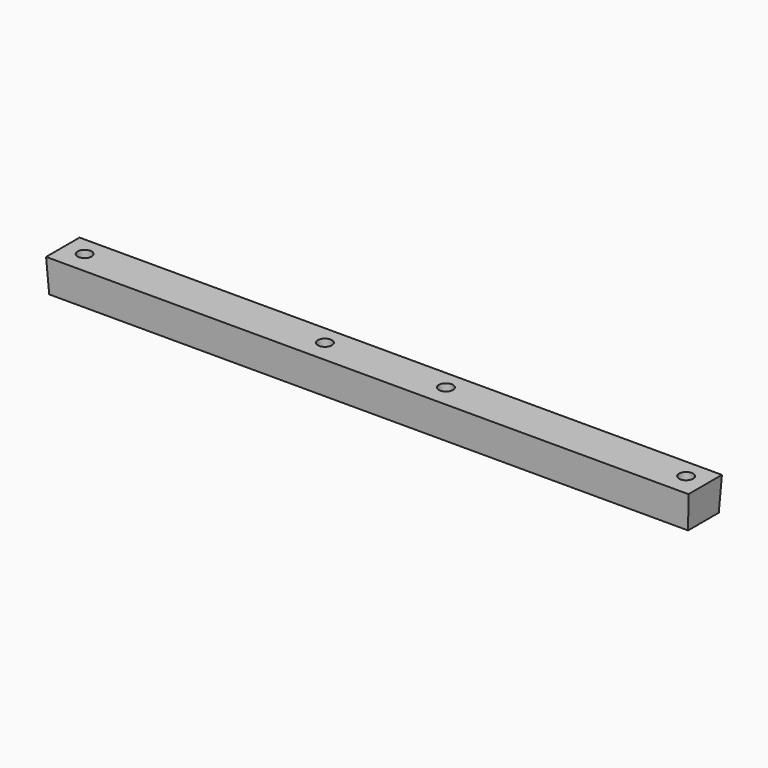
from build123d import *

# Parameters (mm, degrees)
F0_W     = 250
F0_H     = 15
F1_DEPTH = 13
F1_TAPER = -3
F3_D     = 5.5
F4_D     = 10
F4_DEPTH = 8
F4_TIP   = 3.0043030951


with BuildPart() as f1:
    # F0 (on Top) → F1 (new body)
    with BuildSketch(Plane.XY):
        with Locations((-13.7262433767, 28.3889581655)):
            Rectangle(F0_W, F0_H)
    extrude(amount=F1_DEPTH, taper=F1_TAPER)

    # F3 (through all)
    with Locations(Plane(origin=(0, 0, 0), x_dir=(1, 0, 0), z_dir=(0, 0, -1))):
        with Locations((-131.4075445074, -29.0702592962), (-37.4075445074, -29.0702592962), (9.9550577539, -29.0702592962), (103.9550577539, -29.0702592962)):
            Hole(F3_D / 2)

    # F4
    with Locations(Plane(origin=(0, 0, 0), x_dir=(1, 0, 0), z_dir=(0, 0, -1))):
        with Locations((-37.4075445074, -29.0702592962), (9.9550577539, -29.0702592962), (103.9550577539, -29.0702592962), (-131.4075445074, -29.0702592962)):
            Hole(F4_D / 2, depth=F4_DEPTH)
            with Locations((0, 0, -(F4_DEPTH + F4_TIP / 2))):  # 118° drill point
                Cone(0, F4_D / 2, F4_TIP, mode=Mode.SUBTRACT)


solid = f1.part
